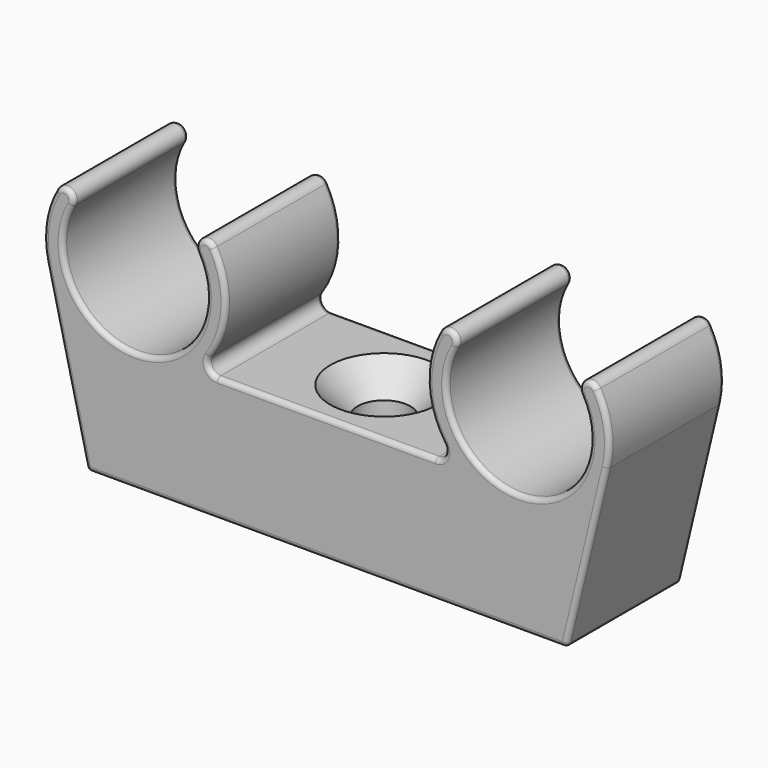
from build123d import *

# Parameters (mm, degrees)
PAD_DEPTH        = 7.5
HOLE_D           = 5.5
HOLE_CSINK_D     = 11.2
HOLE_CSINK_ANGLE = 90
FILLET001_R      = 0.5


with BuildPart() as part:
    # Sketch → Pad (new body, symmetric)
    with BuildSketch(Plane.XZ):
        with BuildLine():
            ThreePointArc((-26.5, 23.741657), (-20, 12.5), (-13.5, 23.741657))
            ThreePointArc((-11.766667, 24.739433), (-13.132221, 25.107212), (-13.5, 23.741657))
            ThreePointArc((-12.203808, 14.571429), (-10.508767, 19.591954), (-11.766667, 24.739433))
            ThreePointArc((-12.203808, 14.571429), (-12.269561, 13.53709), (-11.383156, 13))
            Line((-11.383156, 13), (11.383156, 13))
            ThreePointArc((11.383156, 13), (12.269561, 13.53709), (12.203808, 14.571429))
            ThreePointArc((11.766667, 24.739433), (10.508767, 19.591954), (12.203808, 14.571429))
            ThreePointArc((13.5, 23.741657), (13.132221, 25.107212), (11.766667, 24.739433))
            ThreePointArc((13.5, 23.741657), (20, 12.5), (26.5, 23.741657))
            ThreePointArc((28.233333, 24.739433), (26.867779, 25.107212), (26.5, 23.741657))
            ThreePointArc((29.241231, 17.797808), (29.401417, 21.36505), (28.233333, 24.739433))
            Line((25, 0), (29.241231, 17.797808))
            Line((-25, 0), (25, 0))
            Line((-29.241231, 17.797808), (-25, 0))
            ThreePointArc((-28.233333, 24.739433), (-29.401417, 21.36505), (-29.241231, 17.797808))
            ThreePointArc((-26.5, 23.741657), (-26.867779, 25.107212), (-28.233333, 24.739433))
        make_face()
    extrude(amount=PAD_DEPTH, both=True)

    # Hole (through all)
    with Locations(Plane(origin=(0, 0, 13), x_dir=(-1, 0, 0), z_dir=(0, 0, 1))):
        with Locations((0, 0)):
            CounterSinkHole(HOLE_D / 2, HOLE_CSINK_D / 2, counter_sink_angle=HOLE_CSINK_ANGLE)

    # Fillet001
    fillet001_edges = [part.edges().sort_by_distance(p)[0] for p in [
        (-25, 0, 0),
        (0, 7.5, 0),
        (0, -7.5, 0),
        (25, 0, 0),
        (-2.75, 0, 0),
        (27.120615, 7.5, 8.898904),
        (27.120615, -7.5, 8.898904),
    ]]
    fillet(fillet001_edges, radius=FILLET001_R)


solid = part.part
